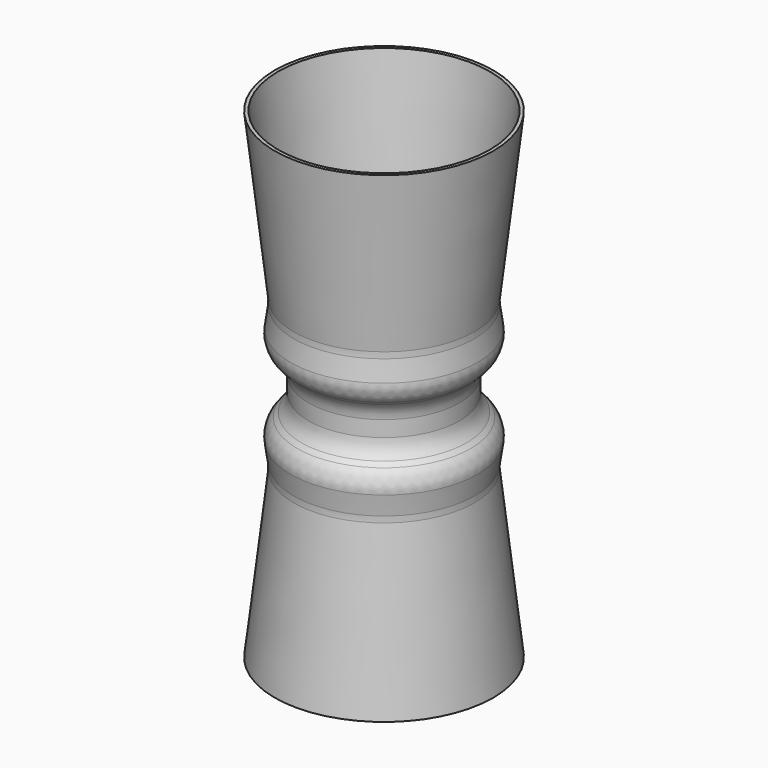
from build123d import *

# Parameters (mm, degrees)
F2_R = 5


with BuildPart() as f1:
    # F0 (on Front) → F1 (revolve)
    with BuildSketch(Plane.XZ):
        Polygon((-22.704557, -50), (-22, -50), (-18, -15), (-19, -8), (-15, -4), (-15, 0), (-15.7, 0), (-15.7, -3.710051), (-19.742462, -7.752513), (-18.70569, -15.009917), align=None)
        Polygon((-15.7, 0), (-15, 0), (-15, 4), (-19, 8), (-18, 15), (-22, 50), (-22.704557, 50), (-18.70569, 15.009917), (-19.742462, 7.752513), (-15.7, 3.710051), align=None)
    revolve(axis=Axis((0, 0, -25), (0, 0, -1)))

    # F2
    f2_edges = [f1.edges().sort_by_distance(p)[0] for p in [
        (19.742462, 0, 7.752513),
        (19, 0, 8),
        (18, 0, 15),
        (18.70569, 0, 15.009917),
        (15.7, 0, -3.710051),
        (19.742462, 0, -7.752513),
        (18.70569, 0, -15.009917),
        (18, 0, -15),
        (19, 0, -8),
        (15, 0, -4),
        (15.7, 0, 3.710051),
        (-15, 0, 0),
        (15, 0, 4),
    ]]
    fillet(f2_edges, radius=F2_R)


solid = f1.part
